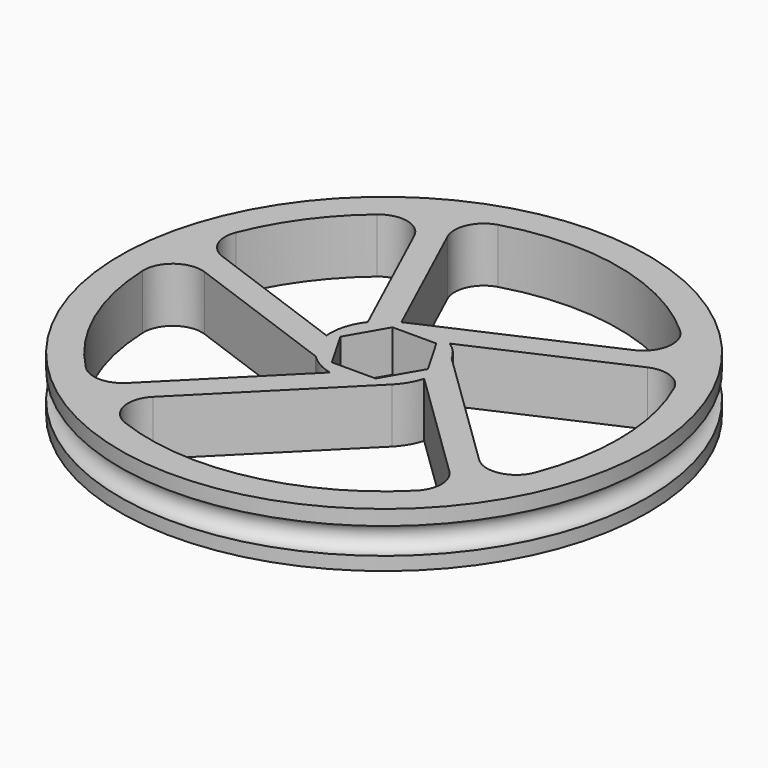
from build123d import *

# Parameters (mm, degrees)
F3_R     = 2.032
F4_DEPTH = 9.526
F5_DEPTH = 9.526
F6_DEPTH = 7.2644
F7_R     = 5.08


with BuildPart() as f2:
    # F1 (on Front) → F2 (revolve)
    with BuildSketch(Plane.XZ):
        with BuildLine():
            Line((45.953082, -2.622399), (45.953082, 0))
            Line((45.953082, 0), (0, 0))
            Line((0, 0), (0, -9.525))
            Line((0, -9.525), (45.953082, -9.525))
            Line((45.953082, -9.525), (45.953082, -7.194399))
            ThreePointArc((45.953082, -7.194399), (43.667082, -4.908399), (45.953082, -2.622399))
        make_face()
    revolve(axis=Axis((0, 0, -4.7625), (0, 0, -1)))

    # F3 (on face) → F4 (cut, through all)
    with BuildSketch(Plane(origin=(0, 0, -9.525), x_dir=(1, 0, 0), z_dir=(0, 0, -1))):
        Circle(F3_R)
    extrude(amount=-F4_DEPTH, mode=Mode.SUBTRACT)

    # F0 (on Top) → F5 (cut, through all)
    with BuildSketch(Plane.XY):
        with BuildLine():
            Line((-3.812821, 8.537283), (32.424712, 24.721265))
            ThreePointArc((32.424712, 24.721265), (9.907948, 39.551681), (-16.941164, 37.087731))
            Line((-16.941164, 37.087731), (-3.812821, 8.537283))
        make_face()
        with BuildLine():
            Line((-7.404719, 5.709023), (-20.882838, 35.020136))
            ThreePointArc((-20.882838, 35.020136), (-32.656298, 24.414526), (-39.497569, 10.121508))
            Line((-39.497569, 10.121508), (-9.307396, -0.891727))
            ThreePointArc((-9.307396, -0.891727), (-9.349033, -0.135558), (-9.329338, 0.6215))
            ThreePointArc((-9.329338, 0.6215), (-8.745163, 3.308311), (-7.404719, 5.709023))
        make_face()
        with BuildLine():
            ThreePointArc((-40.372143, 5.709023), (-37.814361, -15.250474), (-25.115689, -32.120165))
            Line((-25.115689, -32.120165), (-2.147453, -9.100069))
            ThreePointArc((-2.147453, -9.100069), (-4.557398, -8.164124), (-6.618911, -6.604))
            Line((-6.618911, -6.604), (-40.372143, 5.709023))
        make_face()
        with BuildLine():
            ThreePointArc((-21.412568, -34.698772), (7.22509, -40.128555), (32.170471, -25.051221))
            Line((32.170471, -25.051221), (9.001197, -2.530069))
            ThreePointArc((9.001197, -2.530069), (8.071318, -4.719812), (6.618911, -6.604))
            Line((6.618911, -6.604), (-21.412568, -34.698772))
        make_face()
        with BuildLine():
            ThreePointArc((34.738316, -21.348355), (39.235928, -11.092558), (40.773801, 0))
            ThreePointArc((40.773801, 0), (39.293229, 10.887838), (34.959038, 20.98496))
            Line((34.959038, 20.98496), (5.268002, 7.724698))
            ThreePointArc((5.268002, 7.724698), (6.961236, 6.242114), (8.251151, 4.397876))
            Line((8.251151, 4.397876), (34.738316, -21.348355))
        make_face()
    extrude(amount=-F5_DEPTH, mode=Mode.SUBTRACT)

    # F0 (on Top) → F6 (cut)
    with BuildSketch(Plane.XY):
        Polygon((-3.812821, 6.604), (-7.625642, 0), (-3.812821, -6.604), (3.812821, -6.604), (7.625642, 0), (3.812821, 6.604), align=None)
    extrude(amount=-F6_DEPTH, mode=Mode.SUBTRACT)

    # F7
    f7_edges = [f2.edges().sort_by_distance(p)[0] for p in [
        (34.959038, 20.98496, -4.7625),
        (32.424712, 24.721265, -4.7625),
        (-16.941164, 37.087731, -4.7625),
        (-20.882838, 35.020136, -4.7625),
        (-39.497569, 10.121508, -4.7625),
        (-40.372143, 5.709023, -4.7625),
        (-21.412568, -34.698772, -4.7625),
        (-25.115689, -32.120165, -4.7625),
        (32.170471, -25.051221, -4.7625),
        (34.738316, -21.348355, -4.7625),
    ]]
    fillet(f7_edges, radius=F7_R)


solid = f2.part
